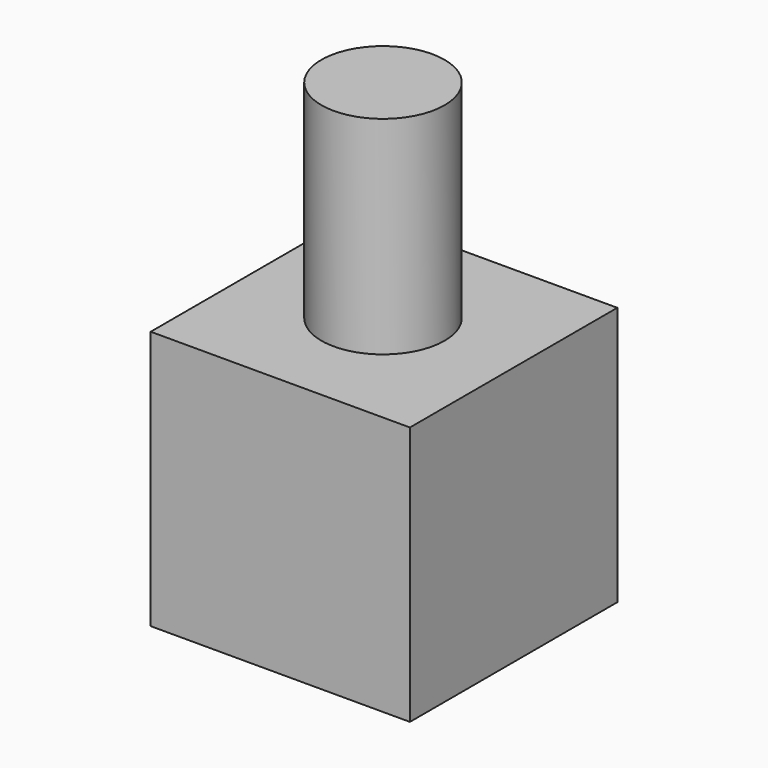
from build123d import *

# Parameters (mm, degrees)
SKETCH_W     = 20
SKETCH_H     = 20
PAD_DEPTH    = 20
SKETCH001_R  = 4.75
PAD001_DEPTH = 16


with BuildPart() as part:
    # Sketch → Pad (new body)
    with BuildSketch(Plane.XY):
        with Locations((10, 10)):
            Rectangle(SKETCH_W, SKETCH_H)
    extrude(amount=PAD_DEPTH)

    # Sketch001 (on Face6 of Pad) → Pad001 (join)
    with BuildSketch(Plane.XY.offset(20)):
        with Locations((9.815934, 10.136573)):
            Circle(SKETCH001_R)
    extrude(amount=PAD001_DEPTH)


solid = part.part
